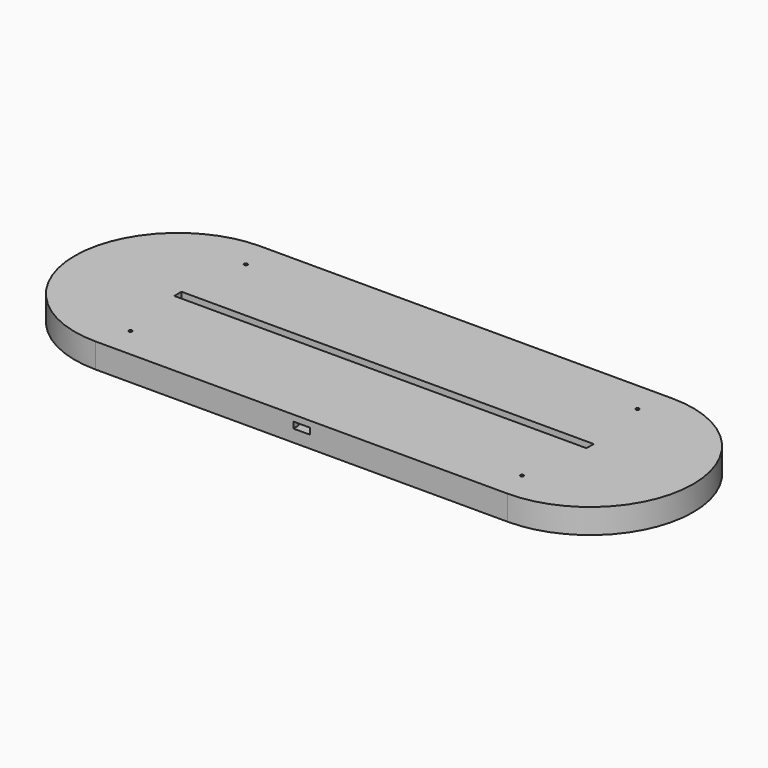
from build123d import *

# Parameters (mm, degrees)
PAD_DEPTH       = 3
PAD001_DEPTH    = 3
SKETCH002_W     = 209.08447
SKETCH002_H     = 4.18
PAD002_DEPTH    = 3
SKETCH003_W     = 26.3
SKETCH003_H     = 34.2
POCKET_DEPTH    = 3
SKETCH004_W     = 18
SKETCH004_H     = 25
POCKET001_DEPTH = 3
SKETCH005_W     = 14
SKETCH005_H     = 5
POCKET002_DEPTH = 6
SKETCH006_W     = 14
SKETCH006_H     = 3
POCKET003_DEPTH = 3
SKETCH007_W     = 8
SKETCH007_H     = 3
POCKET004_DEPTH = 3
SKETCH008_W     = 200
SKETCH008_H     = 4.4
PAD003_DEPTH    = 3
SKETCH009_R     = 0.82
POCKET005_DEPTH = 644.911736


with BuildPart() as part:
    # Sketch → Pad (new body)
    with BuildSketch(Plane.XY):
        with BuildLine():
            ThreePointArc((-100, 50), (-150, 0), (-100, -50))
            Line((-100, -50), (100, -50))
            ThreePointArc((100, -50), (150, 0), (100, 50))
            Line((-100, 50), (100, 50))
        make_face()
    extrude(amount=PAD_DEPTH)

    # Sketch001 (on Face6 of Pad) → Pad001 (join)
    with BuildSketch(Plane.XY.offset(3)):
        with BuildLine():
            ThreePointArc((-100, 50), (-150, 0), (-100, -50))
            Line((-100, -50), (100, -50))
            ThreePointArc((100, -50), (150, 0), (100, 50))
            Line((-100, 50), (100, 50))
        make_face()
        with BuildLine():
            ThreePointArc((-100, 5), (-105, 0), (-100, -5))
            Line((-100, -5), (100, -5))
            ThreePointArc((100, -5), (105, 0), (100, 5))
            Line((-100, 5), (100, 5))
        make_face(mode=Mode.SUBTRACT)
    extrude(amount=PAD001_DEPTH)

    # Sketch002 (on Face9 of Pad001) → Pad002 (join)
    with BuildSketch(Plane.XY.offset(6)):
        with BuildLine():
            ThreePointArc((-100, 50), (-150, 0), (-100, -50))
            Line((-100, -50), (100, -50))
            ThreePointArc((100, -50), (150, 0), (100, 50))
            Line((-100, 50), (100, 50))
        make_face()
        Rectangle(SKETCH002_W, SKETCH002_H, mode=Mode.SUBTRACT)
    extrude(amount=PAD002_DEPTH)

    # Sketch003 (on Face13 of Pad002) → Pocket (cut)
    with BuildSketch(Plane.XY.offset(9)):
        with Locations((0, -29.9)):
            Rectangle(SKETCH003_W, SKETCH003_H)
    extrude(amount=-POCKET_DEPTH, mode=Mode.SUBTRACT)

    # Sketch004 (on Face27 of Pocket) → Pocket001 (cut)
    with BuildSketch(Plane.XY.offset(6)):
        with Locations((0, -25.3)):
            Rectangle(SKETCH004_W, SKETCH004_H)
    extrude(amount=-POCKET001_DEPTH, mode=Mode.SUBTRACT)

    # Sketch005 (on Face13 of Pocket001) → Pocket002 (cut)
    with BuildSketch(Plane.XY.offset(9)):
        with Locations((0, -10.3)):
            Rectangle(SKETCH005_W, SKETCH005_H)
    extrude(amount=-POCKET002_DEPTH, mode=Mode.SUBTRACT)

    # Sketch006 (on Face23 of Pocket002) → Pocket003 (cut)
    with BuildSketch(Plane.XZ.offset(7.8)):
        with Locations((0, 4.5)):
            Rectangle(SKETCH006_W, SKETCH006_H)
    extrude(amount=-POCKET003_DEPTH, mode=Mode.SUBTRACT)

    # Sketch007 (on Face13 of Pocket003) → Pocket004 (cut)
    with BuildSketch(Plane.XY.offset(9)):
        with Locations((0, -48.5)):
            Rectangle(SKETCH007_W, SKETCH007_H)
    extrude(amount=-POCKET004_DEPTH, mode=Mode.SUBTRACT)

    # Sketch008 (on Face15 of Pocket004) → Pad003 (join)
    with BuildSketch(Plane.XY.offset(9)):
        with BuildLine():
            ThreePointArc((-100, 50), (-150, 0), (-100, -50))
            Line((-100, -50), (100, -50))
            ThreePointArc((100, -50), (150, 0), (100, 50))
            Line((-100, 50), (100, 50))
        make_face()
        Rectangle(SKETCH008_W, SKETCH008_H, mode=Mode.SUBTRACT)
    extrude(amount=PAD003_DEPTH)

    # Sketch009 (on Face4 of Pad003) → Pocket005 (cut, through all)
    with BuildSketch(Plane(origin=(0, 0, 0), x_dir=(1, 0, 0), z_dir=(0, 0, -1))):
        with Locations((-95, 35)):
            Circle(SKETCH009_R)
        with Locations((-95, -35)):
            Circle(SKETCH009_R)
    pocket005 = extrude(amount=-POCKET005_DEPTH, mode=Mode.SUBTRACT)

    # Mirrored: Pocket005 across Sketch009 V_Axis
    add(pocket005.mirror(Plane(origin=(0, 0, 0), x_dir=(0, 0, -1), z_dir=(1, 0, 0))), mode=Mode.SUBTRACT)


solid = part.part
